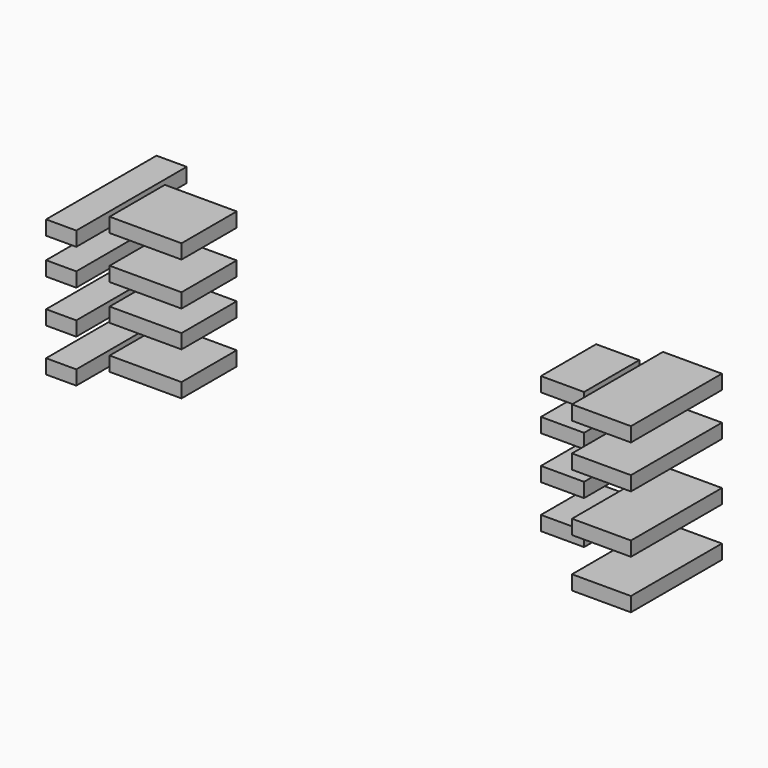
from build123d import *

# Parameters (mm, degrees)
BOX075_W     = 3
BOX075_H     = 4.8
BOX075_DEPTH = 1
BOX063_W     = 3
BOX063_H     = 4.8
BOX063_DEPTH = 1
BOX068_W     = 3
BOX068_H     = 4.8
BOX068_DEPTH = 1
BOX059_W     = 3
BOX059_H     = 4.8
BOX059_DEPTH = 1
BOX078_W     = 4.1
BOX078_H     = 7.91
BOX078_DEPTH = 1
BOX058_W     = 4.1
BOX058_H     = 7.91
BOX058_DEPTH = 1
BOX077_W     = 4.1
BOX077_H     = 7.91
BOX077_DEPTH = 1
BOX030_W     = 4.1
BOX030_H     = 7.91
BOX030_DEPTH = 1
BOX076_W     = 5
BOX076_H     = 4.8
BOX076_DEPTH = 1
BOX066_W     = 5
BOX066_H     = 4.8
BOX066_DEPTH = 1
BOX032_W     = 5
BOX032_H     = 4.8
BOX032_DEPTH = 1
BOX071_W     = 5
BOX071_H     = 4.8
BOX071_DEPTH = 1
BOX064_W     = 2.1
BOX064_H     = 9.6
BOX064_DEPTH = 1
BOX069_W     = 2.1
BOX069_H     = 9.6
BOX069_DEPTH = 1
BOX070_W     = 2.1
BOX070_H     = 9.6
BOX070_DEPTH = 1
BOX029_W     = 2.1
BOX029_H     = 9.6
BOX029_DEPTH = 1


with BuildPart() as cube070:
    # Box075 → Box075 (new body)
    with BuildSketch(Plane(origin=(12.5, -1.13, 16), x_dir=(1, 0, 0), z_dir=(0, 0, 1))):
        with Locations((1.5, 2.4)):
            Rectangle(BOX075_W, BOX075_H)
    extrude(amount=BOX075_DEPTH)


with BuildPart() as cube058:
    # Box063 → Box063 (new body)
    with BuildSketch(Plane(origin=(12.5, -1.13, 10.5), x_dir=(1, 0, 0), z_dir=(0, 0, 1))):
        with Locations((1.5, 2.4)):
            Rectangle(BOX063_W, BOX063_H)
    extrude(amount=BOX063_DEPTH)


with BuildPart() as cube063:
    # Box068 → Box068 (new body)
    with BuildSketch(Plane(origin=(12.5, -1.13, 13.5), x_dir=(1, 0, 0), z_dir=(0, 0, 1))):
        with Locations((1.5, 2.4)):
            Rectangle(BOX068_W, BOX068_H)
    extrude(amount=BOX068_DEPTH)


with BuildPart() as fusion010006012010005012002:
    # Box059 → Box059 (new body)
    with BuildSketch(Plane(origin=(12.5, -1.13, 7.5), x_dir=(1, 0, 0), z_dir=(0, 0, 1))):
        with Locations((1.5, 2.4)):
            Rectangle(BOX059_W, BOX059_H)
    extrude(amount=BOX059_DEPTH)

    # Fusion010006012010005012002: union Cube070, Cube058, Cube063
    add(cube070.part)
    add(cube058.part)
    add(cube063.part)


with BuildPart() as cube073:
    # Box078 → Box078 (new body)
    with BuildSketch(Plane(origin=(15.9, -2.68, 13), x_dir=(1, 0, 0), z_dir=(0, 0, 1))):
        with Locations((2.05, 3.955)):
            Rectangle(BOX078_W, BOX078_H)
    extrude(amount=BOX078_DEPTH)


with BuildPart() as cube053:
    # Box058 → Box058 (new body)
    with BuildSketch(Plane(origin=(15.9, -2.68, 9), x_dir=(1, 0, 0), z_dir=(0, 0, 1))):
        with Locations((2.05, 3.955)):
            Rectangle(BOX058_W, BOX058_H)
    extrude(amount=BOX058_DEPTH)


with BuildPart() as cube072:
    # Box077 → Box077 (new body)
    with BuildSketch(Plane(origin=(15.9, -2.68, 16), x_dir=(1, 0, 0), z_dir=(0, 0, 1))):
        with Locations((2.05, 3.955)):
            Rectangle(BOX077_W, BOX077_H)
    extrude(amount=BOX077_DEPTH)


with BuildPart() as fusion010006012010005012003:
    # Box030 → Box030 (new body)
    with BuildSketch(Plane(origin=(15.9, -2.68, 5.6), x_dir=(1, 0, 0), z_dir=(0, 0, 1))):
        with Locations((2.05, 3.955)):
            Rectangle(BOX030_W, BOX030_H)
    extrude(amount=BOX030_DEPTH)

    # Fusion010006012010005012003: union Cube073, Cube053, Cube072
    add(cube073.part)
    add(cube053.part)
    add(cube072.part)


with BuildPart() as cube071:
    # Box076 → Box076 (new body)
    with BuildSketch(Plane(origin=(-17.5, -1.13, 13), x_dir=(1, 0, 0), z_dir=(0, 0, 1))):
        with Locations((2.5, 2.4)):
            Rectangle(BOX076_W, BOX076_H)
    extrude(amount=BOX076_DEPTH)


with BuildPart() as cube061:
    # Box066 → Box066 (new body)
    with BuildSketch(Plane(origin=(-17.5, -1.13, 10.5), x_dir=(1, 0, 0), z_dir=(0, 0, 1))):
        with Locations((2.5, 2.4)):
            Rectangle(BOX066_W, BOX066_H)
    extrude(amount=BOX066_DEPTH)


with BuildPart() as cube032:
    # Box032 → Box032 (new body)
    with BuildSketch(Plane(origin=(-17.5, -1.13, 7.5), x_dir=(1, 0, 0), z_dir=(0, 0, 1))):
        with Locations((2.5, 2.4)):
            Rectangle(BOX032_W, BOX032_H)
    extrude(amount=BOX032_DEPTH)


with BuildPart() as fusion010006012010005014:
    # Box071 → Box071 (new body)
    with BuildSketch(Plane(origin=(-17.5, -1.13, 16), x_dir=(1, 0, 0), z_dir=(0, 0, 1))):
        with Locations((2.5, 2.4)):
            Rectangle(BOX071_W, BOX071_H)
    extrude(amount=BOX071_DEPTH)

    # Fusion010006012010005014: union Cube071, Cube061, Cube032
    add(cube071.part)
    add(cube061.part)
    add(cube032.part)


with BuildPart() as cube059:
    # Box064 → Box064 (new body)
    with BuildSketch(Plane(origin=(-20, -3.53, 10.5), x_dir=(1, 0, 0), z_dir=(0, 0, 1))):
        with Locations((1.05, 4.8)):
            Rectangle(BOX064_W, BOX064_H)
    extrude(amount=BOX064_DEPTH)


with BuildPart() as cube064:
    # Box069 → Box069 (new body)
    with BuildSketch(Plane(origin=(-20, -3.53, 13.5), x_dir=(1, 0, 0), z_dir=(0, 0, 1))):
        with Locations((1.05, 4.8)):
            Rectangle(BOX069_W, BOX069_H)
    extrude(amount=BOX069_DEPTH)


with BuildPart() as cube065:
    # Box070 → Box070 (new body)
    with BuildSketch(Plane(origin=(-20, -3.53, 16), x_dir=(1, 0, 0), z_dir=(0, 0, 1))):
        with Locations((1.05, 4.8)):
            Rectangle(BOX070_W, BOX070_H)
    extrude(amount=BOX070_DEPTH)


with BuildPart() as base_custom_support:
    # Box029 → Box029 (new body)
    with BuildSketch(Plane(origin=(-20, -3.53, 7.5), x_dir=(1, 0, 0), z_dir=(0, 0, 1))):
        with Locations((1.05, 4.8)):
            Rectangle(BOX029_W, BOX029_H)
    extrude(amount=BOX029_DEPTH)

    # Fusion010006012010005016: union Cube059, Cube064, Cube065
    add(cube059.part)
    add(cube064.part)
    add(cube065.part)

    # Fusion010006012010005012004: union Fusion010006012010005012002, Fusion010006012010005012003, Fusion010006012010005014
    add(fusion010006012010005012002.part)
    add(fusion010006012010005012003.part)
    add(fusion010006012010005014.part)


with BuildPart() as base_custom_support_1:
    # Fusion010006012010005012004 placement: moved
    add(base_custom_support.part.moved(Location((0, -2.52, 1))))


solid = base_custom_support_1.part
